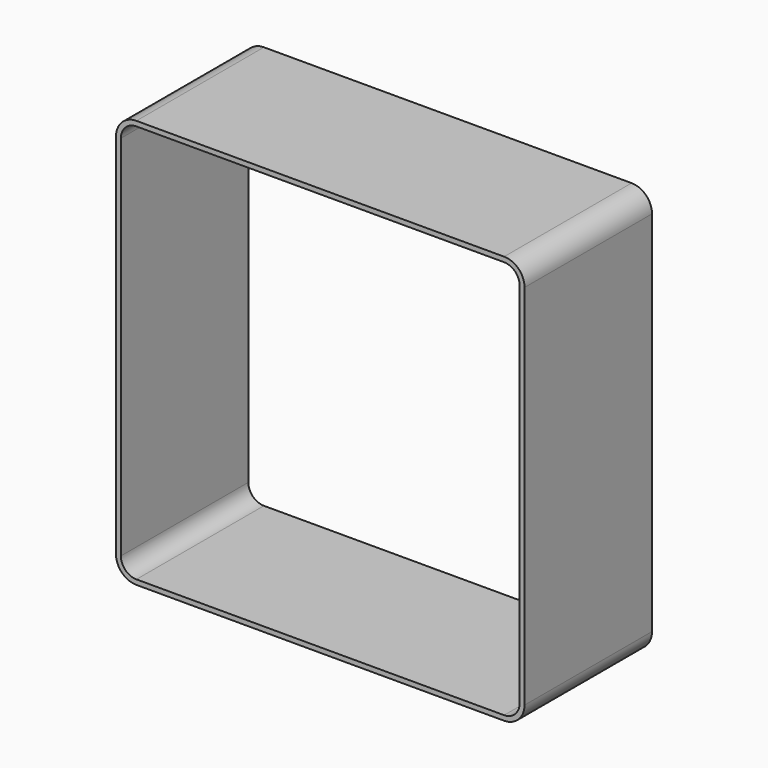
from build123d import *

# Parameters (mm, degrees)
F1_DEPTH = 390


with BuildPart() as f1:
    # F0 (on Front) → F1 (new body)
    with BuildSketch(Plane.XZ):
        with BuildLine():
            ThreePointArc((500, 450), (485.355339, 485.355339), (450, 500))
            Line((450, 500), (-450, 500))
            ThreePointArc((-450, 500), (-485.355339, 485.355339), (-500, 450))
            Line((-500, 450), (-500, -450))
            ThreePointArc((-500, -450), (-485.355339, -485.355339), (-450, -500))
            Line((-450, -500), (450, -500))
            ThreePointArc((450, -500), (485.355339, -485.355339), (500, -450))
            Line((500, -450), (500, 450))
        make_face()
        with BuildLine():
            Line((-450, 488), (450, 488))
            ThreePointArc((450, 488), (476.870058, 476.870058), (488, 450))
            Line((488, 450), (488, -450))
            ThreePointArc((488, -450), (476.870058, -476.870058), (450, -488))
            Line((450, -488), (-450, -488))
            ThreePointArc((-450, -488), (-476.870058, -476.870058), (-488, -450))
            Line((-488, -450), (-488, 450))
            ThreePointArc((-488, 450), (-476.870058, 476.870058), (-450, 488))
        make_face(mode=Mode.SUBTRACT)
    extrude(amount=F1_DEPTH)


solid = f1.part
